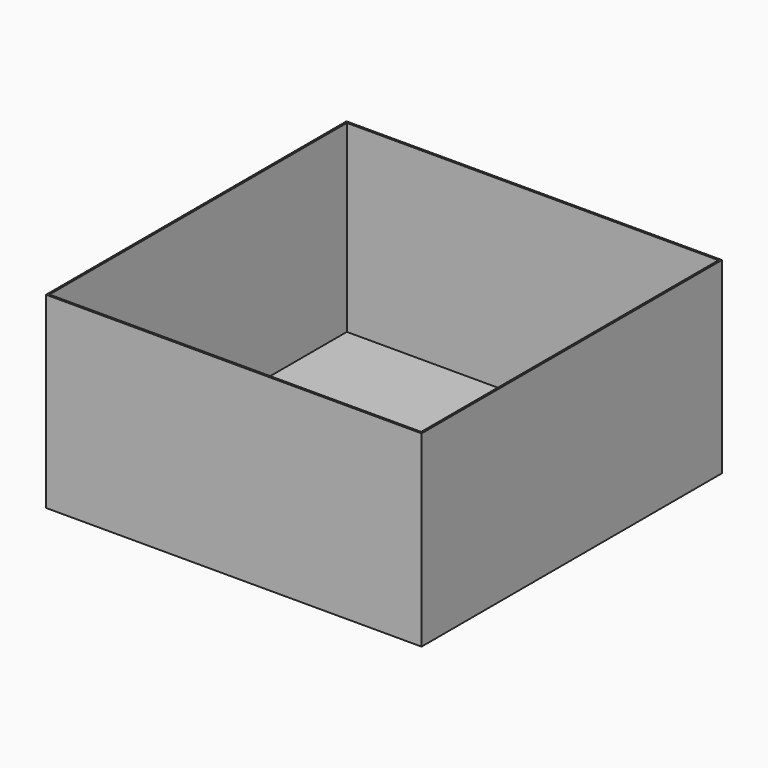
from build123d import *

# Parameters (mm, degrees)
F2_DEPTH = 50
F3_DEPTH = 50


with BuildPart() as f2:
    # F0 (on Front) → F2 (new body, symmetric)
    with BuildSketch(Plane.XZ):
        Polygon((-50, 50), (-50, 0), (0, 0), (0, 1), (-49.5, 1), (-49.5, 50), align=None)
        Polygon((0, 1), (0, 0), (50, 0), (50, 50), (49.5, 50), (49.5, 1), align=None)
    extrude(amount=F2_DEPTH, both=True)

    # F1 (on Right) → F3 (join, symmetric)
    with BuildSketch(Plane.YZ):
        Polygon((50, 0), (50, 50), (49.5, 50), (49.5, 1), (0, 1), (0, 0), align=None)
        Polygon((-50, 0), (0, 0), (0, 1), (-49.5, 1), (-49.5, 50), (-50, 50), align=None)
    extrude(amount=F3_DEPTH, both=True)


solid = f2.part
